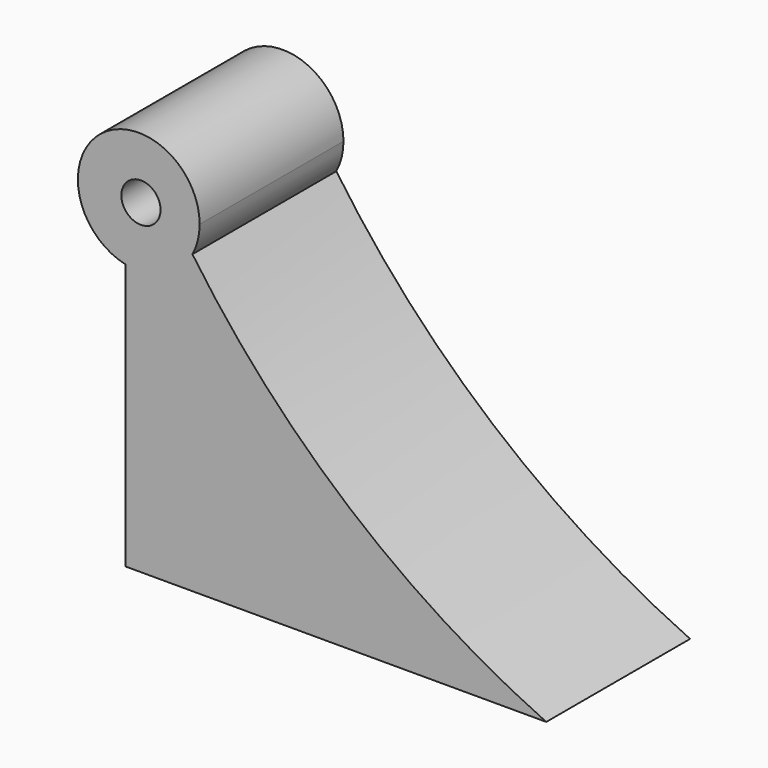
from build123d import *

# Parameters (mm, degrees)
F1_DEPTH = 25.4
F2_R     = 2.768398
F3_DEPTH = 25.4


with BuildPart() as f1:
    # F0 (on Front) → F1 (new body)
    with BuildSketch(Plane.XZ):
        with BuildLine():
            Line((-62.212806, 0), (-2.78565, 0))
            ThreePointArc((-2.78565, 0), (-30.601357, 17.587221), (-52.772208, 41.907526))
            ThreePointArc((-52.772208, 41.907526), (-56.762708, 38.149853), (-62.212806, 37.566223))
            Line((-62.212806, 37.566223), (-62.212806, 0))
        make_face()
        with BuildLine():
            ThreePointArc((-62.212806, 37.566223), (-56.762708, 38.149853), (-52.772208, 41.907526))
            ThreePointArc((-52.772208, 41.907526), (-52.013794, 43.87265), (-51.755831, 45.96319))
            ThreePointArc((-51.755831, 45.96319), (-65.740272, 52.668737), (-62.212806, 37.566223))
        make_face()
    extrude(amount=F1_DEPTH)

    # F2 (on Front) → F3 (cut)
    with BuildSketch(Plane.XZ):
        with Locations((-60.046189, 45.96319)):
            Circle(F2_R)
    extrude(amount=F3_DEPTH, mode=Mode.SUBTRACT)


solid = f1.part
